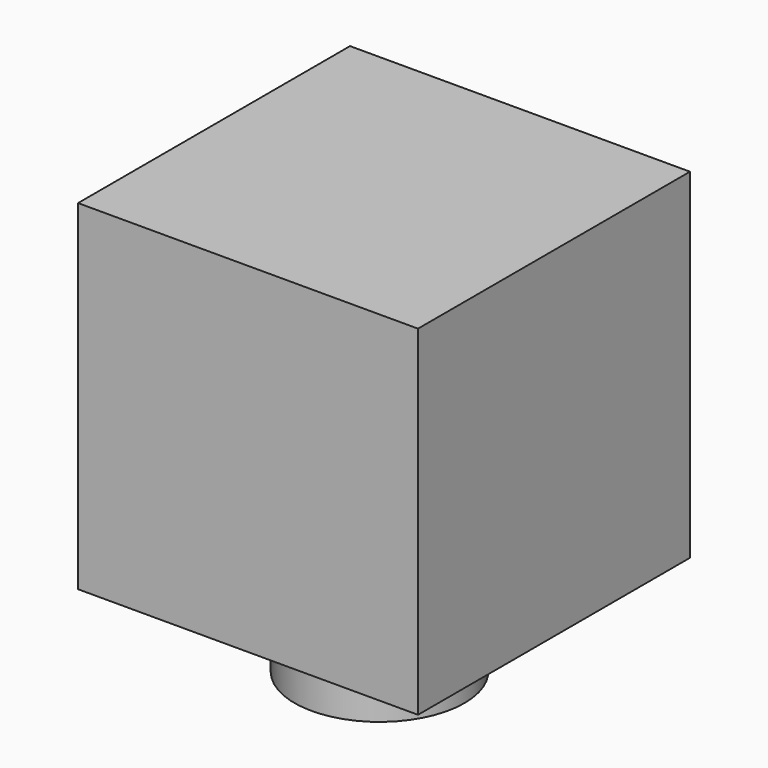
from build123d import *

# Parameters (mm, degrees)
F0_W     = 50.8
F0_H     = 50.8
F1_DEPTH = 50.8
F2_W     = 21.704316
F2_H     = 21.507005
F3_DEPTH = 12.7
F4_R     = 12.7
F5_DEPTH = 12.7
F6_R     = 12.7
F7_DEPTH = 12.7


with BuildPart() as f1:
    # F0 (on Front) → F1 (new body)
    with BuildSketch(Plane.XZ):
        with Locations((-25.4, 25.4)):
            Rectangle(F0_W, F0_H)
    extrude(amount=F1_DEPTH)

    # F2 (on Front) → F3 (join)
    with BuildSketch(Plane.XZ):
        with Locations((-25.5519, 23.57878)):
            Rectangle(F2_W, F2_H)
    extrude(amount=-F3_DEPTH)

    # F4 (on face) → F5 (cut)
    with BuildSketch(Plane(origin=(-50.8, 0, 0), x_dir=(0, -1, 0), z_dir=(-1, 0, 0))):
        with Locations((25.946522, 24.07206)):
            Circle(F4_R)
    extrude(amount=-F5_DEPTH, mode=Mode.SUBTRACT)

    # F6 (on face) → F7 (join)
    with BuildSketch(Plane(origin=(0, 0, 0), x_dir=(1, 0, 0), z_dir=(0, 0, -1))):
        with Locations((-25.551898, 26.044877)):
            Circle(F6_R)
    extrude(amount=F7_DEPTH)


solid = f1.part
